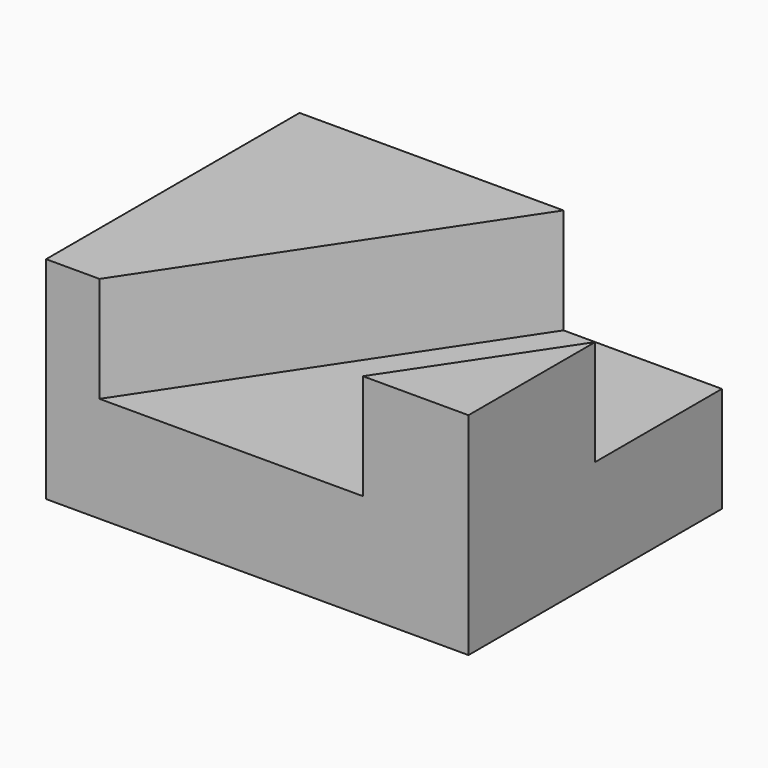
from build123d import *

# Parameters (mm, degrees)
F0_W     = 50.8
F0_H     = 38.1
F1_DEPTH = 25.4
F3_DEPTH = 12.7


with BuildPart() as f1:
    # F0 (on Top) → F1 (new body)
    with BuildSketch(Plane.XY):
        with Locations((-24.241099, 19.05)):
            Rectangle(F0_W, F0_H)
    extrude(amount=F1_DEPTH)

    # F2 (on face) → F3 (cut)
    with BuildSketch(Plane.XY.offset(25.4)):
        Polygon((-17.891099, 38.1), (-43.217082, 0), (-11.541099, 0), (1.158901, 19.05), (1.158901, 38.1), align=None)
    extrude(amount=-F3_DEPTH, mode=Mode.SUBTRACT)


solid = f1.part
